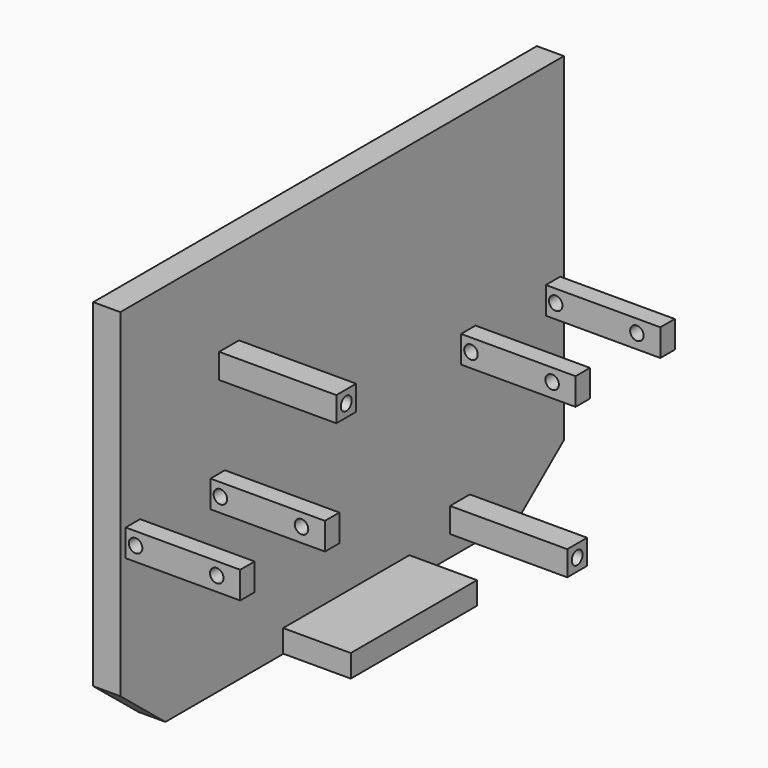
from build123d import *

# Parameters (mm, degrees)
PAD_DEPTH         = 6
SKETCH001_W       = 4
SKETCH001_H       = 6
PAD001_DEPTH      = 25.4
SKETCH002_R       = 1.5
POCKET_DEPTH      = 100
POCKET_DEPTH_BACK = 100
SKETCH003_W       = 35
SKETCH003_H       = 5
PAD002_DEPTH      = 15
SKETCH012_W       = 5.5
SKETCH012_H       = 5.5
SKETCH012_R       = 1.5
PAD010_DEPTH      = 26


with BuildPart() as part:
    # Sketch → Pad (new body)
    with BuildSketch(Plane.YZ):
        Polygon((-61.51, 65.6), (61.49, 65.6), (61.49, -9.4), (48.98, -19.508726), (-49, -19.508726), (-61.51, -9.4), align=None)
    extrude(amount=PAD_DEPTH)

    # Sketch001 (on Face8 of Pad) → Pad001 (join)
    with BuildSketch(Plane.YZ.offset(6)):
        with Locations((34.974674, 19.94)):
            Rectangle(SKETCH001_W, SKETCH001_H)
        with Locations((58.474674, 19.94)):
            Rectangle(SKETCH001_W, SKETCH001_H)
        with Locations((-34.517246, 19.94)):
            Rectangle(SKETCH001_W, SKETCH001_H)
        with Locations((-58.017246, 19.94)):
            Rectangle(SKETCH001_W, SKETCH001_H)
    extrude(amount=PAD001_DEPTH)

    # Sketch002 (on Face14 of Pad001) → Pocket (cut, two sides)
    with BuildSketch(Plane(origin=(0, 32.974674, 0), x_dir=(0, 0, -1), z_dir=(0, -1, 0))) as pocket_sk:
        with Locations((-20.1, 26.2)):
            Circle(SKETCH002_R)
        with Locations((-20.1, 8.2)):
            Circle(SKETCH002_R)
    extrude(amount=-POCKET_DEPTH, mode=Mode.SUBTRACT)
    extrude(pocket_sk.sketch, amount=POCKET_DEPTH_BACK, mode=Mode.SUBTRACT)

    # Sketch003 (on Face5 of Pocket) → Pad002 (join)
    with BuildSketch(Plane.YZ.offset(6)):
        with Locations((1.141409, -16.950097)):
            Rectangle(SKETCH003_W, SKETCH003_H)
    extrude(amount=PAD002_DEPTH)

    # Sketch012 (on Face5 of Pad002) → Pad010 (join)
    with BuildSketch(Plane.YZ.offset(6)):
        with Locations((-31.36108, 43.961174)):
            Rectangle(SKETCH012_W, SKETCH012_H)
        with Locations((-31.36108, 43.961174)):
            Circle(SKETCH012_R, mode=Mode.SUBTRACT)
        with Locations((32.670517, -12.15361)):
            Rectangle(SKETCH012_W, SKETCH012_H)
        with Locations((32.670517, -12.15361)):
            Circle(SKETCH012_R, mode=Mode.SUBTRACT)
    extrude(amount=PAD010_DEPTH)


solid = part.part
